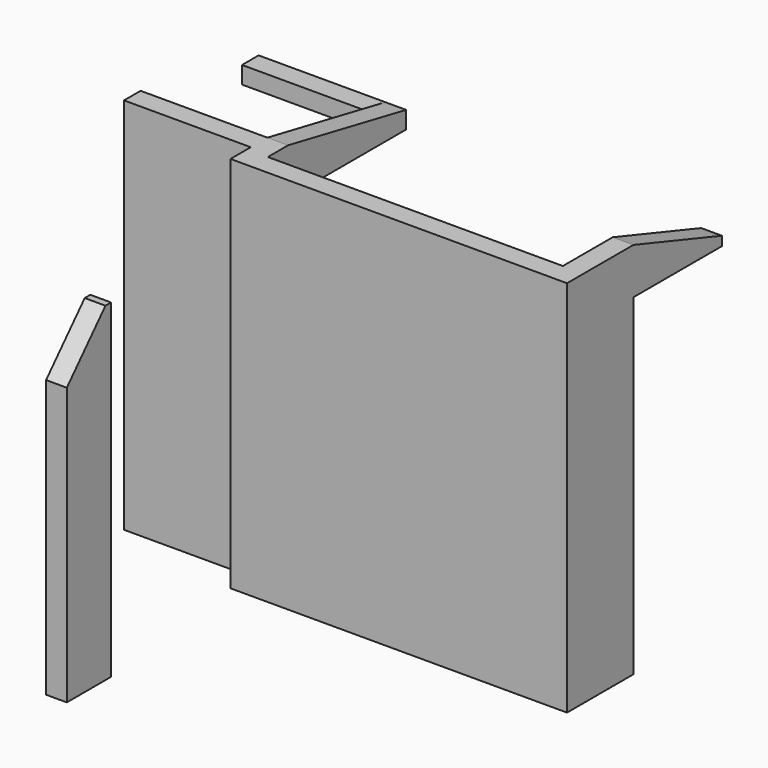
from build123d import *

# Parameters (mm, degrees)
F0_W      = 698.5
F0_H      = 114.3
F0_W_2    = 114.3
F0_H_2    = 25.4
F0_W_3    = 1625.6
F0_H_3    = 342.9
F1_DEPTH  = 2082.8
F2_W      = 304.8
F2_H      = 1816.1
F3_DEPTH  = 114.3
F5_DEPTH  = 203.2
F7_DEPTH  = 114.3
F9_DEPTH  = 114.3
F10_W     = 114.3
F10_H     = 95.447503
F11_DEPTH = 698.5


with BuildPart() as f1:
    # F0 (on Top) → F1 (new body)
    with BuildSketch(Plane.XY):
        with Locations((349.25, -57.15)):
            Rectangle(F0_W, F0_H)
        with Locations((755.65, -57.15)):
            Rectangle(F0_W_2, F0_H)
        with Locations((755.65, -127)):
            Rectangle(F0_W_2, F0_H_2)
        with Locations((755.65, -196.85)):
            Rectangle(F0_W_2, F0_H)
        with Locations((1625.6, -196.85)):
            Rectangle(F0_W_3, F0_H)
        with Locations((2495.55, 31.75)):
            Rectangle(F0_W_2, F0_H_3)
        with Locations((2495.55, -196.85)):
            Rectangle(F0_W_2, F0_H)
    extrude(amount=F1_DEPTH)

    # F6 (on face) → F7 (join)
    with BuildSketch(Plane.YZ.offset(2552.7)):
        Polygon((203.2, 2082.8), (203.2, 1828.8), (812.8, 1828.8), (812.8, 1879.6), align=None)
    extrude(amount=-F7_DEPTH)

    # F8 (on face) → F9 (join)
    with BuildSketch(Plane.YZ.offset(812.8)):
        Polygon((0, 2082.8), (0, 1828.8), (812.8, 1828.8), (812.8, 1924.247503), align=None)
    extrude(amount=-F9_DEPTH)

    # F10 (on face) → F11 (join)
    with BuildSketch(Plane(origin=(698.5, 0, 0), x_dir=(0, -1, 0), z_dir=(-1, 0, 0))):
        with Locations((-755.65, 1876.523751)):
            Rectangle(F10_W, F10_H)
    extrude(amount=F11_DEPTH)


with BuildPart() as f3:
    # F2 (on face) → F3 (new body)
    with BuildSketch(Plane(origin=(698.5, 0, 0), x_dir=(0, -1, 0), z_dir=(-1, 0, 0))):
        with Locations((1371.6, 908.05)):
            Rectangle(F2_W, F2_H)
    extrude(amount=-F3_DEPTH)

    # F4 (on face) → F5 (cut)
    with BuildSketch(Plane(origin=(698.5, 0, 0), x_dir=(0, -1, 0), z_dir=(-1, 0, 0))):
        Polygon((1524, 1816.1), (1257.9633, 1816.1), (1524, 1526.397347), align=None)
    extrude(amount=-F5_DEPTH, mode=Mode.SUBTRACT)


solid = Compound([f1.part, f3.part])
